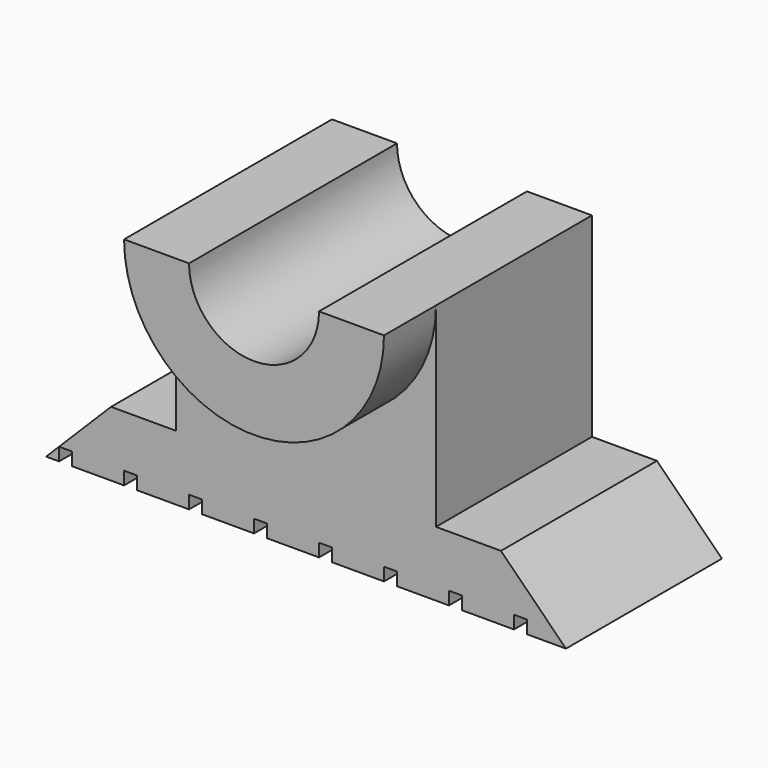
from build123d import *

# Parameters (mm, degrees)
F1_DEPTH = 30
F3_DEPTH = 10
F4_W     = 2
F4_H     = 30
F5_DEPTH = 2


with BuildPart() as f1:
    # F0 (on Front) → F1 (new body)
    with BuildSketch(Plane.XZ):
        with BuildLine():
            Line((-30, 10), (-40, 0))
            Line((-40, 0), (40, 0))
            Line((40, 0), (30, 10))
            Line((30, 10), (20, 10))
            Line((20, 10), (20, 40))
            Line((20, 40), (10, 40))
            ThreePointArc((10, 40), (0, 30), (-10, 40))
            Line((-10, 40), (-20, 40))
            Line((-20, 40), (-20, 10))
            Line((-20, 10), (-30, 10))
        make_face()
    extrude(amount=F1_DEPTH)

    # F2 (on face) → F3 (join)
    with BuildSketch(Plane.XZ.offset(30)):
        with BuildLine():
            Line((-10, 40), (-20, 40))
            ThreePointArc((-20, 40), (0, 20), (20, 40))
            Line((20, 40), (10, 40))
            ThreePointArc((10, 40), (0, 30), (-10, 40))
        make_face()
    extrude(amount=F3_DEPTH)

    # F4 (on face) → F5 (cut)
    with BuildSketch(Plane(origin=(0, 0, 0), x_dir=(1, 0, 0), z_dir=(0, 0, -1))):
        with Locations((-27, 15)):
            Rectangle(F4_W, F4_H)
        with Locations((-37, 15)):
            Rectangle(F4_W, F4_H)
        with Locations((-17, 15)):
            Rectangle(F4_W, F4_H)
        with Locations((-7, 15)):
            Rectangle(F4_W, F4_H)
        with Locations((3, 15)):
            Rectangle(F4_W, F4_H)
        with Locations((13, 15)):
            Rectangle(F4_W, F4_H)
        with Locations((23, 15)):
            Rectangle(F4_W, F4_H)
        with Locations((33, 15)):
            Rectangle(F4_W, F4_H)
    extrude(amount=-F5_DEPTH, mode=Mode.SUBTRACT)


solid = f1.part
